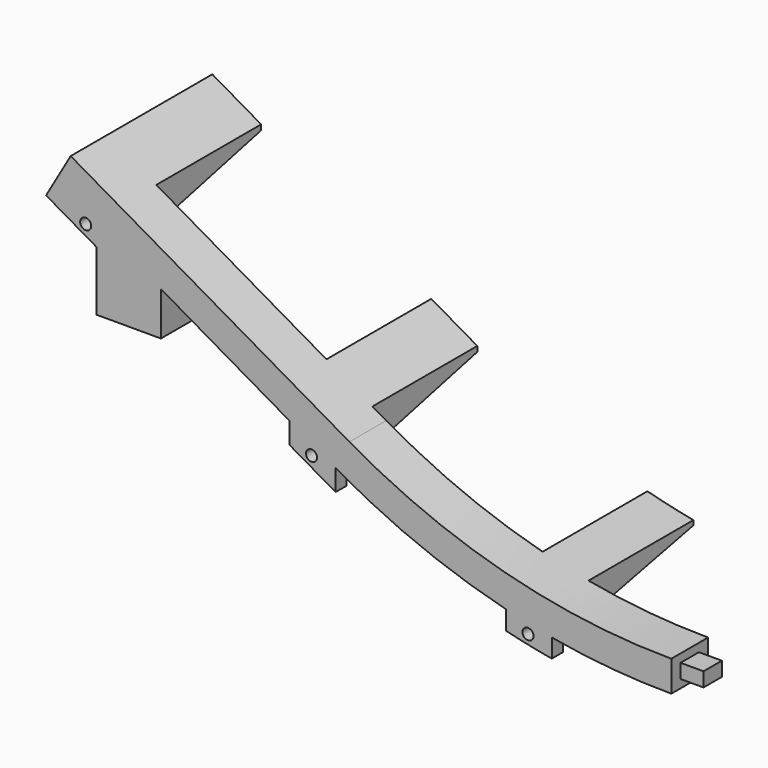
from build123d import *

# Parameters (mm, degrees)
BOX010_W               = 200
BOX010_H               = 100
BOX010_DEPTH           = 100
BOX008_W               = 20
BOX008_H               = 20
BOX008_DEPTH           = 20
BOX008_PLACEMENT_ANGLE = 30
BOX011_W               = 14
BOX011_H               = 14
BOX011_DEPTH           = 20
SKETCH039_R            = 5.5
POCKET007_DEPTH        = 20.001
BOX014_W               = 7.5
BOX014_H               = 60
BOX014_DEPTH           = 200
ARRAY002_X_COUNT       = 7
ARRAY002_X_PITCH       = 47
BOX006_W               = 37
BOX006_H               = 60
BOX006_DEPTH           = 200
ARRAY_X_COUNT          = 6
ARRAY_X_PITCH          = 47
BOX012_W               = 14
BOX012_H               = 14
BOX012_DEPTH           = 12
SKETCH032_R            = 5.5
POCKET009_DEPTH        = 12.001
BOX013_W               = 14
BOX013_H               = 14
BOX013_DEPTH           = 12
SKETCH034_R            = 5.5
POCKET008_DEPTH        = 12.001
BOX009_W               = 37
BOX009_H               = 60
BOX009_DEPTH           = 200
ARRAY001_X_COUNT       = 6
ARRAY001_X_PITCH       = 47
SKETCH035_W            = 3
SKETCH035_H            = 4
SKETCH036_R            = 1.2
POCKET006_DEPTH        = 3.001
SKETCH037_W            = 5
SKETCH037_H            = 3.1
PAD022_DEPTH           = 5


with BuildPart() as bigleft:
    # Box010 → Box010 (new body)
    with BuildSketch(Plane(origin=(0, -50, -50), x_dir=(1, 0, 0), z_dir=(0, 0, 1))):
        with Locations((100, 50)):
            Rectangle(BOX010_W, BOX010_H)
    extrude(amount=BOX010_DEPTH)


with BuildPart() as pillar_cut_cube_l:
    # Box008 → Box008 (new body)
    with BuildSketch(Plane.XY):
        with Locations((10, 10)):
            Rectangle(BOX008_W, BOX008_H)
    extrude(amount=BOX008_DEPTH)


with BuildPart() as pillar_cut_cube_l_1:
    # Box008 placement: moved
    add(pillar_cut_cube_l.part.moved(Location((-127.001, 5, 20.4905))).rotate(Axis((-127.001, 5, 20.4905), (0, 1, 0)), BOX008_PLACEMENT_ANGLE))


with BuildPart() as cut011:
    # Box011 → Box011 (new body)
    with BuildSketch(Plane(origin=(-125, 8.55, 0), x_dir=(1, 0, 0), z_dir=(0, 0, 1))):
        with Locations((7, 7)):
            Rectangle(BOX011_W, BOX011_H)
    extrude(amount=BOX011_DEPTH)

    # Sketch039 → Pocket007 (cut, through all)
    with BuildSketch(Plane(origin=(-125, 8.55, 20), x_dir=(1, 0, 0), z_dir=(0, 0, 1))):
        with Locations((7, 7)):
            Circle(SKETCH039_R)
    extrude(amount=-POCKET007_DEPTH, mode=Mode.SUBTRACT)

    # Cut011: cut pillar_cut_cube_l
    add(pillar_cut_cube_l_1.part, mode=Mode.SUBTRACT)


with BuildPart() as array002:
    # Box014 → Box014 (new body)
    with BuildSketch(Plane(origin=(-128.8, 18.55, -100), x_dir=(1, 0, 0), z_dir=(0, 0, 1))):
        with Locations((3.75, 30)):
            Rectangle(BOX014_W, BOX014_H)
    extrude(amount=BOX014_DEPTH)

    # Array002 X: Array002 ×7


with BuildPart() as array002_1:
    add(array002.part)
    with Locations(*[(i * ARRAY002_X_PITCH, 0, 0) for i in range(1, ARRAY002_X_COUNT)]):
        add(array002.part)


with BuildPart() as rail_cut_cube_array_b:
    # Box006 → Box006 (new body)
    with BuildSketch(Plane(origin=(-120, 18.55, -100), x_dir=(1, 0, 0), z_dir=(0, 0, 1))):
        with Locations((18.5, 30)):
            Rectangle(BOX006_W, BOX006_H)
    extrude(amount=BOX006_DEPTH)

    # Array X: rail_cut_cube_array_b ×6


with BuildPart() as rail_cut_cube_array_b_1:
    add(rail_cut_cube_array_b.part)
    with Locations(*[(i * ARRAY_X_PITCH, 0, 0) for i in range(1, ARRAY_X_COUNT)]):
        add(rail_cut_cube_array_b.part)


with BuildPart() as cut013:
    # Sweep002: sweep along a path in Sketch028
    with BuildLine(Plane.XZ) as sweep002_path:
        Line((164.641016, 24.27441), (144.641016, 24.27441))
        ThreePointArc((144.641016, 24.27441), (123.935493, 21.548477), (104.641016, 13.556443))
        Line((104.641016, 13.556443), (70, -6.443557))
        ThreePointArc((70, -6.443557), (0, -25.2), (-70, -6.443557))
        Line((-70, -6.443557), (-130.621778, 28.556443))
    # Sketch043 → Sweep002 (sweep)
    with BuildSketch(Plane.YZ.offset(164.641016)):
        Polygon((18.55, 17.58), (47.05, 23.28), (18.55, 23.28), align=None)
    sweep(path=sweep002_path.line)

    # Cut012: cut rail_cut_cube_array_b
    add(rail_cut_cube_array_b_1.part, mode=Mode.SUBTRACT)

    # Cut013: cut Array002
    add(array002_1.part, mode=Mode.SUBTRACT)


with BuildPart() as rail_cut_b:
    # Sweep: sweep along a path in Sketch028
    with BuildLine(Plane.XZ) as sweep_path:
        Line((164.641016, 24.27441), (144.641016, 24.27441))
        ThreePointArc((144.641016, 24.27441), (123.935493, 21.548477), (104.641016, 13.556443))
        Line((104.641016, 13.556443), (70, -6.443557))
        ThreePointArc((70, -6.443557), (0, -25.2), (-70, -6.443557))
        Line((-70, -6.443557), (-130.621778, 28.556443))
    # Sketch029 → Sweep (sweep)
    with BuildSketch(Plane.YZ):
        Polygon((-19.25, -25.2), (-19.25, -31.9), (-9.25, -31.9), (-9.25, -26.2), (19.25, -26.2), (19.25, -25.2), align=None)
    sweep(path=sweep_path.line)


with BuildPart() as rail_cut_b_1:
    # Sweep placement: moved
    add(rail_cut_b.part.moved(Location((0, 27.8, 0))))

    # Cut007: cut rail_cut_cube_array_b
    add(rail_cut_cube_array_b_1.part, mode=Mode.SUBTRACT)


with BuildPart() as pillar_hollow_r:
    # Box012 → Box012 (new body)
    with BuildSketch(Plane(origin=(143, 8.55, 7), x_dir=(1, 0, 0), z_dir=(0, 0, 1))):
        with Locations((7, 7)):
            Rectangle(BOX012_W, BOX012_H)
    extrude(amount=BOX012_DEPTH)

    # Sketch032 → Pocket009 (cut, through all)
    with BuildSketch(Plane(origin=(143, 8.55, 19), x_dir=(1, 0, 0), z_dir=(0, 0, 1))):
        with Locations((7, 7)):
            Circle(SKETCH032_R)
    extrude(amount=-POCKET009_DEPTH, mode=Mode.SUBTRACT)


with BuildPart() as pillar_hollow_m:
    # Box013 → Box013 (new body)
    with BuildSketch(Plane(origin=(18, 8.55, -40), x_dir=(1, 0, 0), z_dir=(0, 0, 1))):
        with Locations((7, 7)):
            Rectangle(BOX013_W, BOX013_H)
    extrude(amount=BOX013_DEPTH)

    # Sketch034 → Pocket008 (cut, through all)
    with BuildSketch(Plane(origin=(18, 8.55, -28), x_dir=(1, 0, 0), z_dir=(0, 0, 1))):
        with Locations((7, 7)):
            Circle(SKETCH034_R)
    extrude(amount=-POCKET008_DEPTH, mode=Mode.SUBTRACT)


with BuildPart() as mount_cube_array_b:
    # Box009 → Box009 (new body)
    with BuildSketch(Plane(origin=(-120, 18.55, -100), x_dir=(1, 0, 0), z_dir=(0, 0, 1))):
        with Locations((18.5, 30)):
            Rectangle(BOX009_W, BOX009_H)
    extrude(amount=BOX009_DEPTH)

    # Array001 X: mount_cube_array_b ×6


with BuildPart() as mount_cube_array_b_1:
    add(mount_cube_array_b.part)
    with Locations(*[(i * ARRAY001_X_PITCH, 0, 0) for i in range(1, ARRAY001_X_COUNT)]):
        add(mount_cube_array_b.part)


with BuildPart() as mount_cube_array_b_2:
    # Array001 placement: moved
    add(mount_cube_array_b_1.part.moved(Location((0, -30, 0))))


with BuildPart() as cut014:
    # Sweep001: sweep along a path in Sketch028
    with BuildLine(Plane.XZ) as sweep001_path:
        Line((-130.621778, 28.556443), (-70, -6.443557))
        ThreePointArc((-70, -6.443557), (0, -25.2), (70, -6.443557))
        Line((70, -6.443557), (104.641016, 13.556443))
        ThreePointArc((104.641016, 13.556443), (123.935493, 21.548477), (144.641016, 24.27441))
        Line((144.641016, 24.27441), (164.641016, 24.27441))
    # Sketch035 → Sweep001 (sweep)
    with BuildSketch(Plane.YZ):
        with Locations((-17.75, -33.9)):
            Rectangle(SKETCH035_W, SKETCH035_H)
    sweep(path=sweep001_path.line)


with BuildPart() as cut014_1:
    # Sweep001 placement: moved
    add(cut014.part.moved(Location((0, 27.8, 0))))

    # Sketch036 → Pocket006 (cut, through all)
    with BuildSketch(Plane.XZ.offset(-8.55)):
        with Locations((-127.361382, 16.612761)):
            Circle(SKETCH036_R)
        with Locations((-78.25576, -11.759304)):
            Circle(SKETCH036_R)
        with Locations((-31.170284, -30.615305)):
            Circle(SKETCH036_R)
        with Locations((15.982787, -32.973976)):
            Circle(SKETCH036_R)
        with Locations((62.801571, -19.921701)):
            Circle(SKETCH036_R)
        with Locations((109.81105, 6.487408)):
            Circle(SKETCH036_R)
        with Locations((158.314011, 15.583238)):
            Circle(SKETCH036_R)
    extrude(amount=-POCKET006_DEPTH, mode=Mode.SUBTRACT)

    # Cut010: cut mount_cube_array_b
    add(mount_cube_array_b_2.part, mode=Mode.SUBTRACT)

    # Fusion003: union Cut011, Cut013, rail_cut_b, pillar_hollow_r, pillar_hollow_m
    add(cut011.part)
    add(cut013.part)
    add(rail_cut_b_1.part)
    add(pillar_hollow_r.part)
    add(pillar_hollow_m.part)

    # Cut014: cut bigleft
    add(bigleft.part, mode=Mode.SUBTRACT)


with BuildPart() as obj1:
    # Sketch037 → Pad022 (new body)
    with BuildSketch(Plane.YZ):
        with Locations((13.55, -28.55)):
            Rectangle(SKETCH037_W, SKETCH037_H)
    extrude(amount=PAD022_DEPTH)

    # Fusion004: union Cut014
    add(cut014_1.part)


solid = obj1.part
